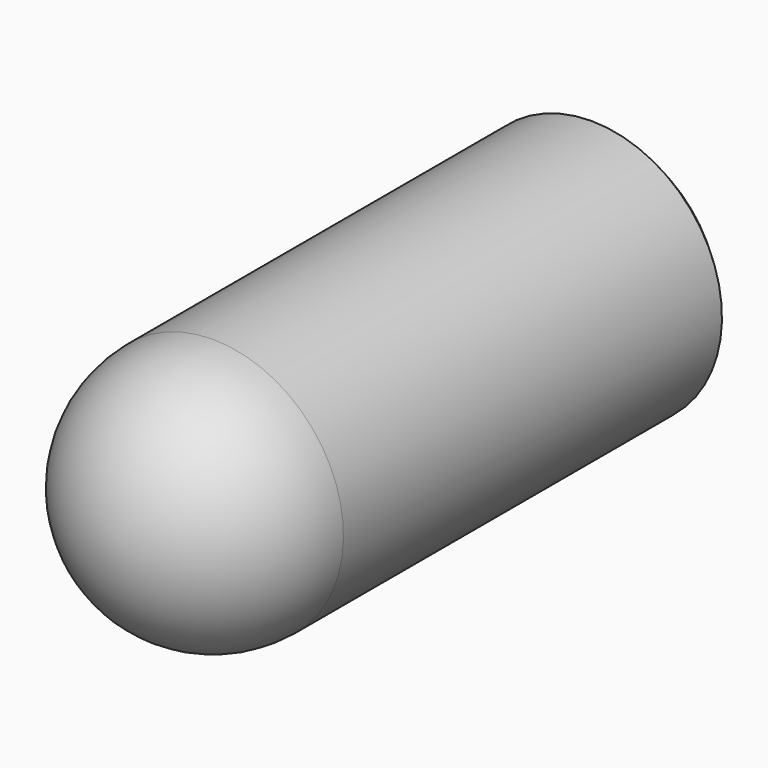
from build123d import *

# Parameters (mm, degrees)
F2_DEPTH = 25
F3_SIZE  = 0.5
F4_R     = 1.55
F5_DEPTH = 5


with BuildPart() as f1:
    # F0 (on Right) → F1 (revolve)
    with BuildSketch(Plane.YZ):
        with BuildLine():
            Line((1.5, 0), (7, 0))
            Line((7, 0), (7, 4))
            Line((7, 4), (-8, 4))
            ThreePointArc((-8, 4), (-10.8284271247, 2.8284271247), (-12, 0))
            Line((-12, 0), (-1.5, 0))
            ThreePointArc((-1.5, 0), (0, 1.5), (1.5, 0))
        make_face()
        with BuildLine():
            ThreePointArc((-1.5, 0), (0, -1.5), (1.5, 0))
            Line((1.5, 0), (-1.5, 0))
        make_face()
        with BuildLine():
            Line((-1.5, 0), (1.5, 0))
            ThreePointArc((1.5, 0), (0, 1.5), (-1.5, 0))
        make_face()
    revolve(axis=Axis((0, -2.5, 0), (0, -1, 0)))

    # F0 (on Right) → F2 (cut)
    with BuildSketch(Plane.YZ):
        with BuildLine():
            Line((-1.5, 0), (1.5, 0))
            ThreePointArc((1.5, 0), (0, 1.5), (-1.5, 0))
        make_face()
        with BuildLine():
            ThreePointArc((-1.5, 0), (0, -1.5), (1.5, 0))
            Line((1.5, 0), (-1.5, 0))
        make_face()
    extrude(amount=-F2_DEPTH, mode=Mode.SUBTRACT)

    # F3
    f3_edges = [f1.edges().sort_by_distance(p)[0] for p in [
        (0, 7, -4),
    ]]
    chamfer(f3_edges, length=F3_SIZE)

    # F4 (on face) → F5 (cut)
    with BuildSketch(Plane(origin=(0, 7, 0), x_dir=(-1, 0, 0), z_dir=(0, 1, 0))):
        Circle(F4_R)
    extrude(amount=-F5_DEPTH, mode=Mode.SUBTRACT)


solid = f1.part
